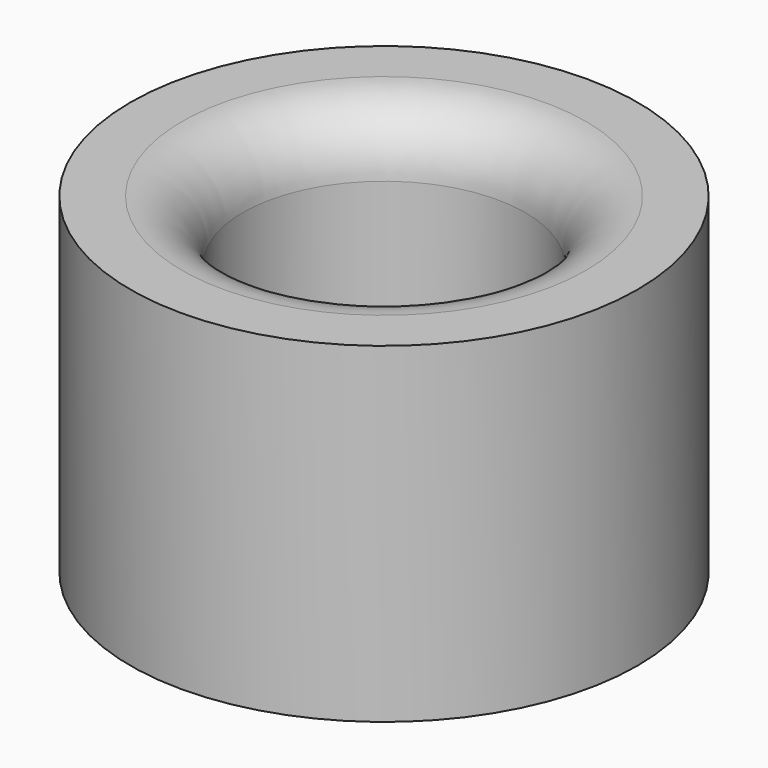
from build123d import *

# Parameters (mm, degrees)
CYLINDER004_R     = 3.14
CYLINDER004_DEPTH = 4.1
CYLINDER005_R     = 1.75
CYLINDER005_DEPTH = 14
FILLET002_R       = 0.75


with BuildPart() as part:
    # Cylinder004 → Cylinder004 (join)
    with BuildSketch(Plane.XY.offset(12)):
        Circle(CYLINDER004_R)
    extrude(amount=CYLINDER004_DEPTH)

    # Cylinder005 → Cylinder005 (cut)
    with BuildSketch(Plane.XY.offset(3)):
        Circle(CYLINDER005_R)
    extrude(amount=CYLINDER005_DEPTH, mode=Mode.SUBTRACT)

    # Fillet002
    fillet002_edges = [part.edges().sort_by_distance(p)[0] for p in [
        (-1.75, 0, 16.1),
    ]]
    fillet(fillet002_edges, radius=FILLET002_R)


solid = part.part
